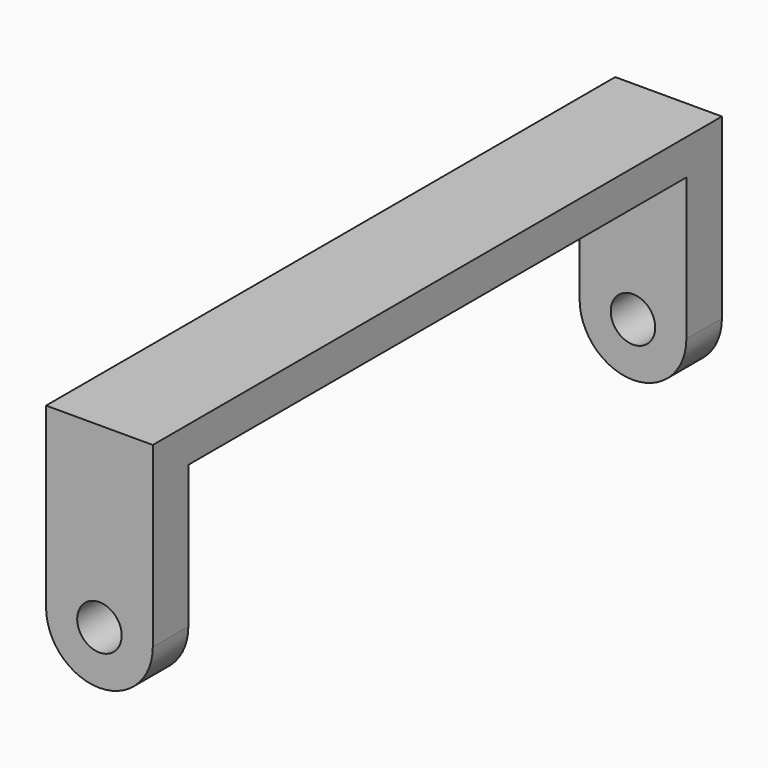
from build123d import *

# Parameters (mm, degrees)
F0_W     = 6
F0_H     = 2
F1_DEPTH = 40
F0_R     = 1.25
F2_DEPTH = 2.5
F3_START = 37.5
F3_DEPTH = 2.5


with BuildPart() as f1:
    # F0 (on Front) → F1 (new body)
    with BuildSketch(Plane.XZ):
        with Locations((0, 9)):
            Rectangle(F0_W, F0_H)
    extrude(amount=F1_DEPTH)

    # F0 (on Front) → F2 (join)
    with BuildSketch(Plane.XZ):
        with BuildLine():
            Line((-3, 8), (-3, 0))
            ThreePointArc((-3, 0), (0, -3), (3, 0))
            Line((3, 0), (3, 8))
            Line((3, 8), (-3, 8))
        make_face()
        Circle(F0_R, mode=Mode.SUBTRACT)
    extrude(amount=F2_DEPTH)

    # F0 (on Front) → F3 (join)
    with BuildSketch(Plane.XZ.offset(F3_START)):
        with BuildLine():
            Line((-3, 8), (-3, 0))
            ThreePointArc((-3, 0), (0, -3), (3, 0))
            Line((3, 0), (3, 8))
            Line((3, 8), (-3, 8))
        make_face()
        Circle(F0_R, mode=Mode.SUBTRACT)
    extrude(amount=F3_DEPTH)


solid = f1.part
